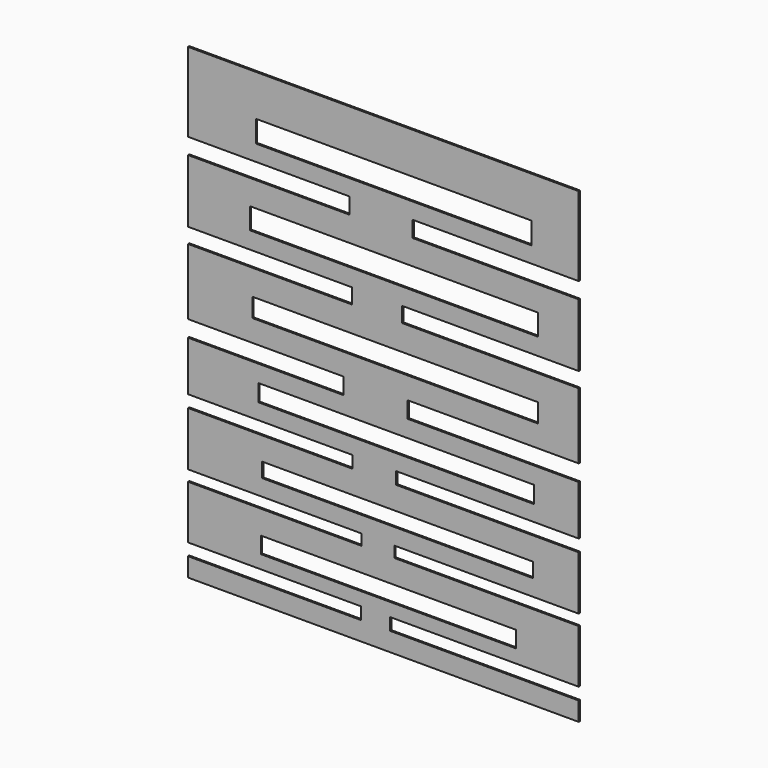
from build123d import *

# Parameters (mm, degrees)
F0_W     = 79.1259
F0_H     = 5.074583
F0_W_2   = 84.01253
F0_H_2   = 4.510738
F0_W_3   = 85.328166
F0_H_3   = 5.262531
F0_W_4   = 88.523269
F0_H_4   = 5.826373
F0_W_5   = 89.275062
F0_H_5   = 6.578165
F0_W_6   = 85.328165
F0_H_6   = 6.766111
F1_DEPTH = 0.5


with BuildPart() as f1:
    # F0 (on Front) → F1 (new body)
    with BuildSketch(Plane.XZ):
        Polygon((62.676273, 71.898557), (-58.361914, 71.898557), (-58.361914, 47.371406), (-8.367877, 47.371406), (-8.367877, 42.390797), (-58.361914, 42.390797), (-58.361914, 22.844255), (-7.616087, 22.844255), (-7.616087, 18.145567), (-58.361914, 18.145567), (-58.361914, -2.34071), (-10.247352, -2.34071), (-10.247352, -7.415293), (-58.361914, -7.415293), (-58.361914, -22.826988), (-7.428139, -22.826988), (-7.428139, -26.585938), (-58.361914, -26.585938), (-58.361914, -43.313265), (-4.608927, -43.313265), (-4.608927, -46.69632), (-58.361914, -46.69632), (-58.361914, -63.2357), (-4.796875, -63.2357), (-4.796875, -66.994652), (-58.361914, -66.994652), (-58.361914, -72.821021), (62.676273, -72.821021), (62.676273, -66.994652), (4.224605, -66.994652), (4.224605, -63.2357), (62.676273, -63.2357), (62.676273, -46.69632), (5.540238, -46.69632), (5.540238, -43.313265), (62.676273, -43.313265), (62.676273, -26.585938), (6.10408, -26.585938), (6.10408, -22.826988), (62.676273, -22.826988), (62.676273, -7.415293), (9.675083, -7.415293), (9.675083, -2.34071), (62.676273, -2.34071), (62.676273, 18.145567), (7.983554, 18.145567), (7.983554, 22.844255), (62.676273, 22.844255), (62.676273, 42.390797), (11.178663, 42.390797), (11.178663, 47.371406), (62.676273, 47.371406), align=None)
        with Locations((3.754737, -56.563564)):
            Rectangle(F0_W, F0_H, mode=Mode.SUBTRACT)
        with Locations((6.573949, -35.983313)):
            Rectangle(F0_W_2, F0_H_2, mode=Mode.SUBTRACT)
        with Locations((6.10408, -15.309088)):
            Rectangle(F0_W_3, F0_H_3, mode=Mode.SUBTRACT)
        with Locations((5.822159, 7.338586)):
            Rectangle(F0_W_4, F0_H_4, mode=Mode.SUBTRACT)
        with Locations((5.446263, 31.395866)):
            Rectangle(F0_W_5, F0_H_5, mode=Mode.SUBTRACT)
        with Locations((5.35229, 55.73507)):
            Rectangle(F0_W_6, F0_H_6, mode=Mode.SUBTRACT)
    extrude(amount=F1_DEPTH)


solid = f1.part
